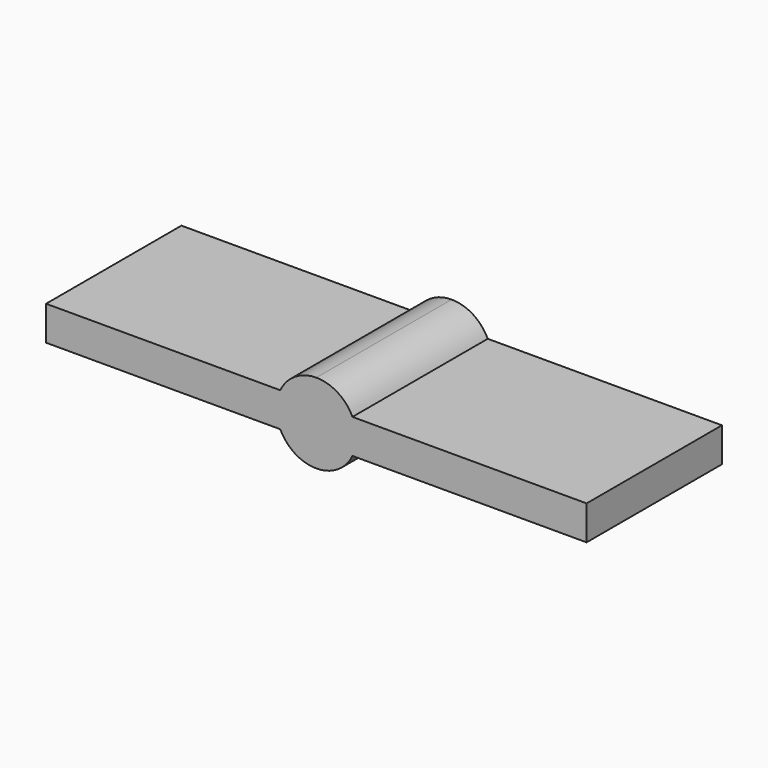
from build123d import *

# Parameters (mm, degrees)
F1_DEPTH = 275


with BuildPart() as f1:
    # F0 (on Front) → F1 (new body)
    with BuildSketch(Plane.XZ):
        with BuildLine():
            ThreePointArc((-58.699841, -27.916459), (-63.405401, -14.309269), (-65, 0))
            ThreePointArc((-65, 0), (-63.405401, 14.309269), (-58.699841, 27.916459))
            Line((-58.699841, 27.916459), (-439.396739, 27.916459))
            Line((-439.396739, 27.916459), (-439.396739, -27.916459))
            Line((-439.396739, -27.916459), (-58.699841, -27.916459))
        make_face()
        with BuildLine():
            ThreePointArc((58.699841, 27.916459), (63.405401, 14.309269), (65, 0))
            ThreePointArc((65, 0), (63.405401, -14.309269), (58.699841, -27.916459))
            Line((58.699841, -27.916459), (439.396739, -27.916459))
            Line((439.396739, -27.916459), (439.396739, 27.916459))
            Line((439.396739, 27.916459), (58.699841, 27.916459))
        make_face()
        with BuildLine():
            Line((-65, 0), (0, 0))
            Line((0, 0), (0, 27.916459))
            Line((0, 27.916459), (-58.699841, 27.916459))
            ThreePointArc((-58.699841, 27.916459), (-63.405401, 14.309269), (-65, 0))
        make_face()
        with BuildLine():
            Line((0, 0), (65, 0))
            ThreePointArc((65, 0), (63.405401, 14.309269), (58.699841, 27.916459))
            Line((58.699841, 27.916459), (0, 27.916459))
            Line((0, 27.916459), (0, 0))
        make_face()
        with BuildLine():
            Line((0, 27.916459), (58.699841, 27.916459))
            ThreePointArc((58.699841, 27.916459), (34.716208, 54.95257), (0, 65))
            Line((0, 65), (0, 27.916459))
        make_face()
        with BuildLine():
            ThreePointArc((0, -65), (34.716208, -54.95257), (58.699841, -27.916459))
            Line((58.699841, -27.916459), (0, -27.916459))
            Line((0, -27.916459), (0, -65))
        make_face()
        with BuildLine():
            Line((0, -27.916459), (0, 0))
            Line((0, 0), (-65, 0))
            ThreePointArc((-65, 0), (-63.405401, -14.309269), (-58.699841, -27.916459))
            Line((-58.699841, -27.916459), (0, -27.916459))
        make_face()
        with BuildLine():
            ThreePointArc((58.699841, -27.916459), (63.405401, -14.309269), (65, 0))
            Line((65, 0), (0, 0))
            Line((0, 0), (0, -27.916459))
            Line((0, -27.916459), (58.699841, -27.916459))
        make_face()
        with BuildLine():
            ThreePointArc((-58.699841, -27.916459), (-34.716208, -54.95257), (0, -65))
            Line((0, -65), (0, -27.916459))
            Line((0, -27.916459), (-58.699841, -27.916459))
        make_face()
        with BuildLine():
            Line((0, 27.916459), (0, 65))
            ThreePointArc((0, 65), (-34.716208, 54.95257), (-58.699841, 27.916459))
            Line((-58.699841, 27.916459), (0, 27.916459))
        make_face()
    extrude(amount=-F1_DEPTH)


solid = f1.part
